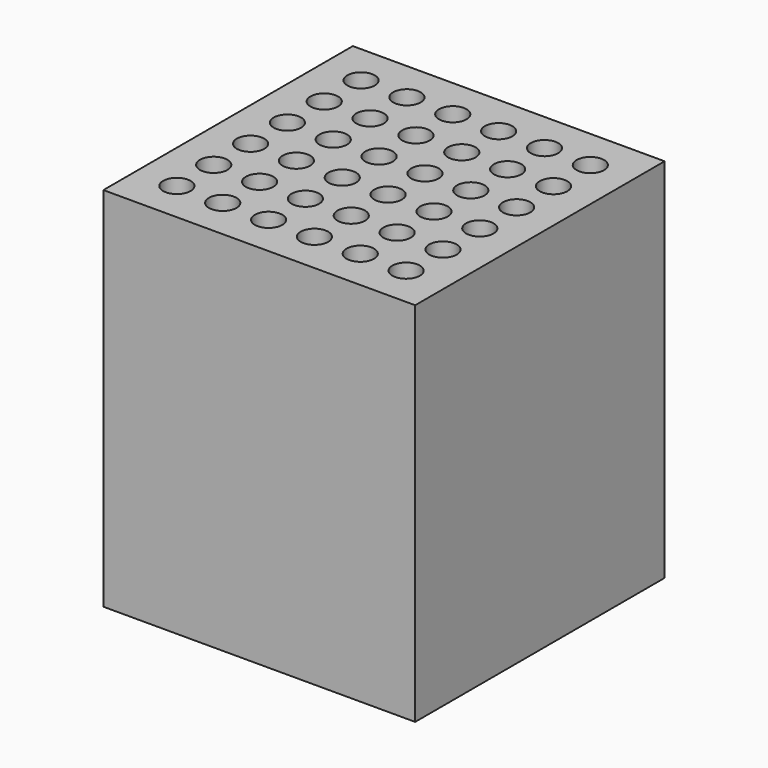
from build123d import *

# Parameters (mm, degrees)
F0_R     = 0.75
F1_DEPTH = 20


with BuildPart() as f1:
    # F0 (on Top) → F1 (new body)
    with BuildSketch(Plane.XY):
        Polygon((-6.25, 8.5), (-8.5, 8.5), (-8.5, 6.25), (-8.5, 3.75), (-8.5, 1.25), (-8.5, -1.25), (-8.5, -3.75), (-8.5, -6.25), (-8.5, -8.5), (8.5, -8.5), (8.5, 8.5), (6.25, 8.5), (3.75, 8.5), (1.25, 8.5), (-1.25, 8.5), (-3.75, 8.5), align=None)
        with Locations((-6.293252, -6.249925)):
            Circle(F0_R, mode=Mode.SUBTRACT)
        with Locations((-3.793252, -6.249925)):
            Circle(F0_R, mode=Mode.SUBTRACT)
        with Locations((-1.293252, -6.249925)):
            Circle(F0_R, mode=Mode.SUBTRACT)
        with Locations((-6.284602, -3.74994)):
            Circle(F0_R, mode=Mode.SUBTRACT)
        with Locations((-6.275951, -1.249955)):
            Circle(F0_R, mode=Mode.SUBTRACT)
        with Locations((-3.784602, -3.74994)):
            Circle(F0_R, mode=Mode.SUBTRACT)
        with Locations((-1.284602, -3.74994)):
            Circle(F0_R, mode=Mode.SUBTRACT)
        with Locations((-3.775951, -1.249955)):
            Circle(F0_R, mode=Mode.SUBTRACT)
        with Locations((-1.275951, -1.249955)):
            Circle(F0_R, mode=Mode.SUBTRACT)
        with Locations((1.206748, -6.249925)):
            Circle(F0_R, mode=Mode.SUBTRACT)
        with Locations((3.706748, -6.249925)):
            Circle(F0_R, mode=Mode.SUBTRACT)
        with Locations((6.206748, -6.249925)):
            Circle(F0_R, mode=Mode.SUBTRACT)
        with Locations((1.215398, -3.74994)):
            Circle(F0_R, mode=Mode.SUBTRACT)
        with Locations((3.715398, -3.74994)):
            Circle(F0_R, mode=Mode.SUBTRACT)
        with Locations((1.224049, -1.249955)):
            Circle(F0_R, mode=Mode.SUBTRACT)
        with Locations((3.724049, -1.249955)):
            Circle(F0_R, mode=Mode.SUBTRACT)
        with Locations((6.215398, -3.74994)):
            Circle(F0_R, mode=Mode.SUBTRACT)
        with Locations((6.224049, -1.249955)):
            Circle(F0_R, mode=Mode.SUBTRACT)
        with Locations((-6.267301, 1.25003)):
            Circle(F0_R, mode=Mode.SUBTRACT)
        with Locations((-6.25865, 3.750015)):
            Circle(F0_R, mode=Mode.SUBTRACT)
        with Locations((-3.767301, 1.25003)):
            Circle(F0_R, mode=Mode.SUBTRACT)
        with Locations((-1.267301, 1.25003)):
            Circle(F0_R, mode=Mode.SUBTRACT)
        with Locations((-3.75865, 3.750015)):
            Circle(F0_R, mode=Mode.SUBTRACT)
        with Locations((-1.25865, 3.750015)):
            Circle(F0_R, mode=Mode.SUBTRACT)
        with Locations((-6.25, 6.25)):
            Circle(F0_R, mode=Mode.SUBTRACT)
        with Locations((-3.75, 6.25)):
            Circle(F0_R, mode=Mode.SUBTRACT)
        with Locations((-1.25, 6.25)):
            Circle(F0_R, mode=Mode.SUBTRACT)
        with Locations((1.232699, 1.25003)):
            Circle(F0_R, mode=Mode.SUBTRACT)
        with Locations((3.732699, 1.25003)):
            Circle(F0_R, mode=Mode.SUBTRACT)
        with Locations((1.24135, 3.750015)):
            Circle(F0_R, mode=Mode.SUBTRACT)
        with Locations((3.74135, 3.750015)):
            Circle(F0_R, mode=Mode.SUBTRACT)
        with Locations((6.232699, 1.25003)):
            Circle(F0_R, mode=Mode.SUBTRACT)
        with Locations((6.24135, 3.750015)):
            Circle(F0_R, mode=Mode.SUBTRACT)
        with Locations((1.25, 6.25)):
            Circle(F0_R, mode=Mode.SUBTRACT)
        with Locations((3.75, 6.25)):
            Circle(F0_R, mode=Mode.SUBTRACT)
        with Locations((6.25, 6.25)):
            Circle(F0_R, mode=Mode.SUBTRACT)
    extrude(amount=F1_DEPTH)


solid = f1.part
